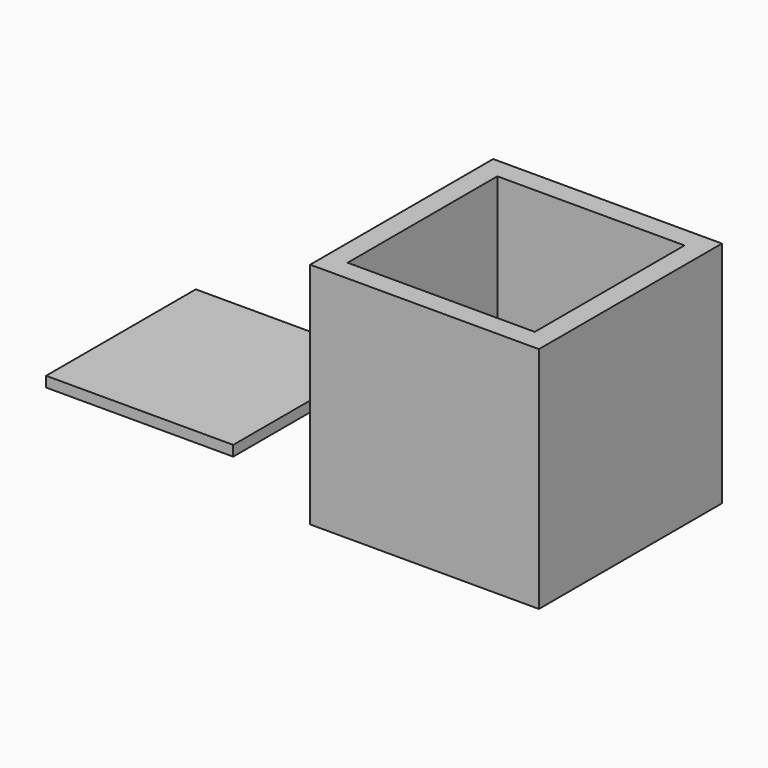
from build123d import *

# Parameters (mm, degrees)
F0_W     = 110
F0_H     = 110
F1_DEPTH = 110
F2_T     = -10
F3_DEPTH = 5


with BuildPart() as f1:
    # F0 (on Top) → F1 (new body)
    with BuildSketch(Plane.XY):
        with Locations((-70.2710856497, -31.9208656965)):
            Rectangle(F0_W, F0_H)
    extrude(amount=F1_DEPTH)

    # F2
    f2_openings = [f1.faces().sort_by_distance(p)[0] for p in [
        (-70.271086, -31.920866, 110),
    ]]
    offset(amount=F2_T, openings=f2_openings)


with BuildPart() as f3:
    # F3 (new): a face of the model
    f3_faces = [f1.part.faces().sort_by_distance(p)[0] for p in [
        (-70.2710856497, -31.9208656965, 10),
    ]]
    extrude(f3_faces, amount=F3_DEPTH)


with BuildPart() as f3_1:
    # F4: moved
    add(f3.part.moved(Location((-145, 0, 0))))


solid = Compound([f1.part, f3_1.part])
